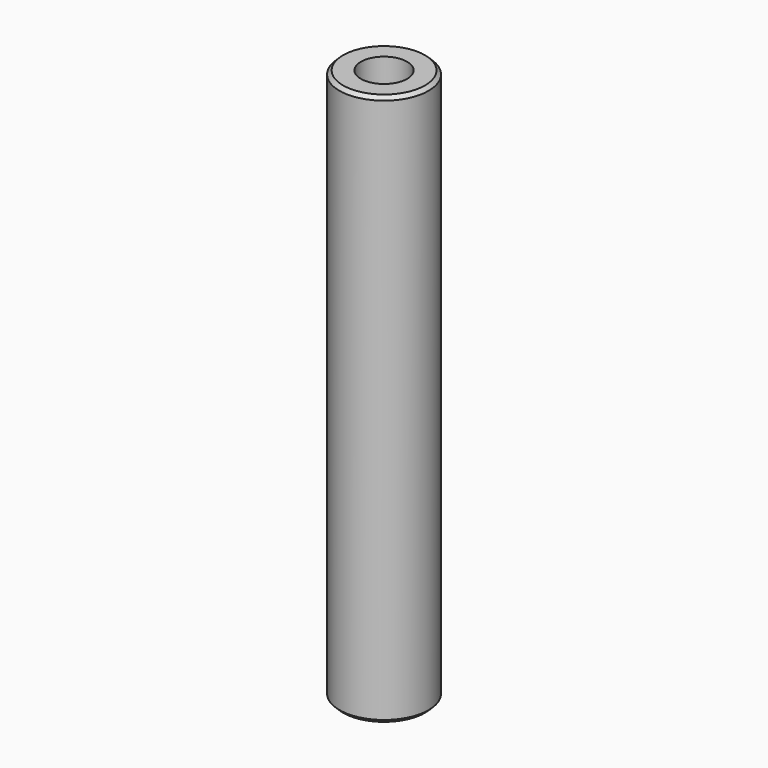
from build123d import *

# Parameters (mm, degrees)
F0_R     = 2.5
F1_DEPTH = 15.5
F2_R     = 1.3
F3_DEPTH = 10
F4_R     = 1.3
F5_DEPTH = 10
F6_SIZE  = 0.2


with BuildPart() as f1:
    # F0 (on Top) → F1 (new body, symmetric)
    with BuildSketch(Plane.XY):
        Circle(F0_R)
    extrude(amount=F1_DEPTH, both=True)

    # F2 (on face) → F3 (cut)
    with BuildSketch(Plane.XY.offset(15.5)):
        Circle(F2_R)
    extrude(amount=-F3_DEPTH, mode=Mode.SUBTRACT)

    # F4 (on face) → F5 (cut)
    with BuildSketch(Plane(origin=(0, 0, -15.5), x_dir=(1, 0, 0), z_dir=(0, 0, -1))):
        Circle(F4_R)
    extrude(amount=-F5_DEPTH, mode=Mode.SUBTRACT)

    # F6
    f6_edges = [f1.edges().sort_by_distance(p)[0] for p in [
        (-2.5, 0, -15.5),
        (2.5, 0, 0),
        (-2.5, 0, 15.5),
    ]]
    chamfer(f6_edges, length=F6_SIZE)


solid = f1.part
